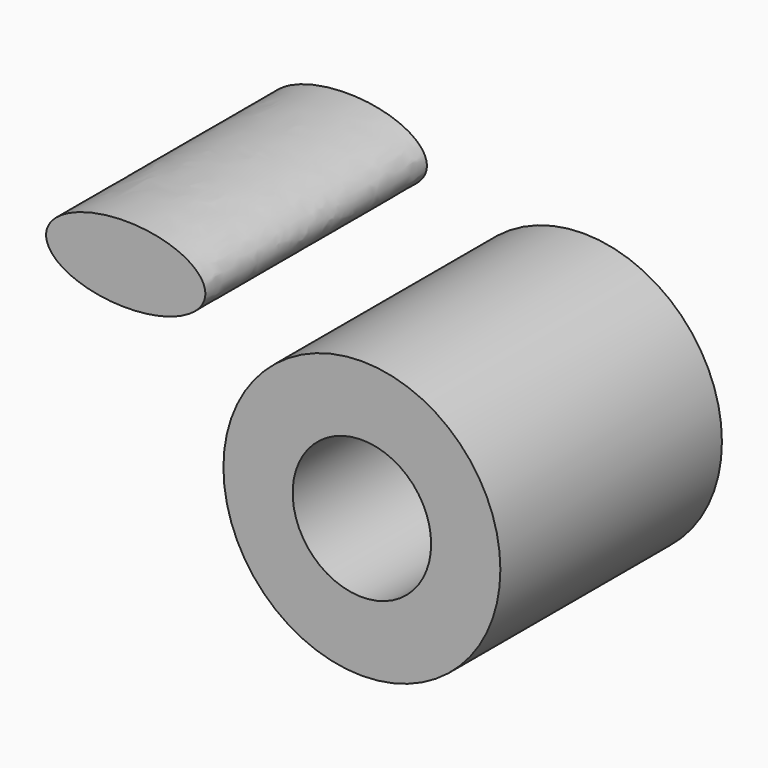
from build123d import *

# Parameters (mm, degrees)
F0_R     = 25.4
F0_R_2   = 12.7
F1_DEPTH = 50.8


with BuildPart() as f1:
    # F0 (on Front) → F1 (new body)
    with BuildSketch(Plane.XZ):
        with Locations((-121.0668608546, 36.7805436254)):
            Circle(F0_R)
        with Locations((-121.0668608546, 36.7805436254)):
            Circle(F0_R_2, mode=Mode.SUBTRACT)
    extrude(amount=F1_DEPTH)


with BuildPart() as f1b:
    # F0 (on Front) → F1, piece 2 (new body)
    with BuildSketch(Plane.XZ):
        with BuildLine():
            add(Edge.make_bspline(
                [(-178.997516017, 63.7345910072), (-178.997516017, 51.6354015026), (-157.090016017, 57.6849962549), (-135.182516017, 63.7345910072), (-157.090016017, 69.7841857596), (-178.997516017, 75.8337805119), (-178.997516017, 63.7345910072)],
                knots=[0, 0, 0, 2.0943951024, 2.0943951024, 4.1887902048, 4.1887902048, 6.2831853072, 6.2831853072, 6.2831853072], degree=2, weights=[1, 0.5, 1, 0.5, 1, 0.5, 1]))
        make_face()
    extrude(amount=F1_DEPTH)


solid = Compound([f1.part, f1b.part])
